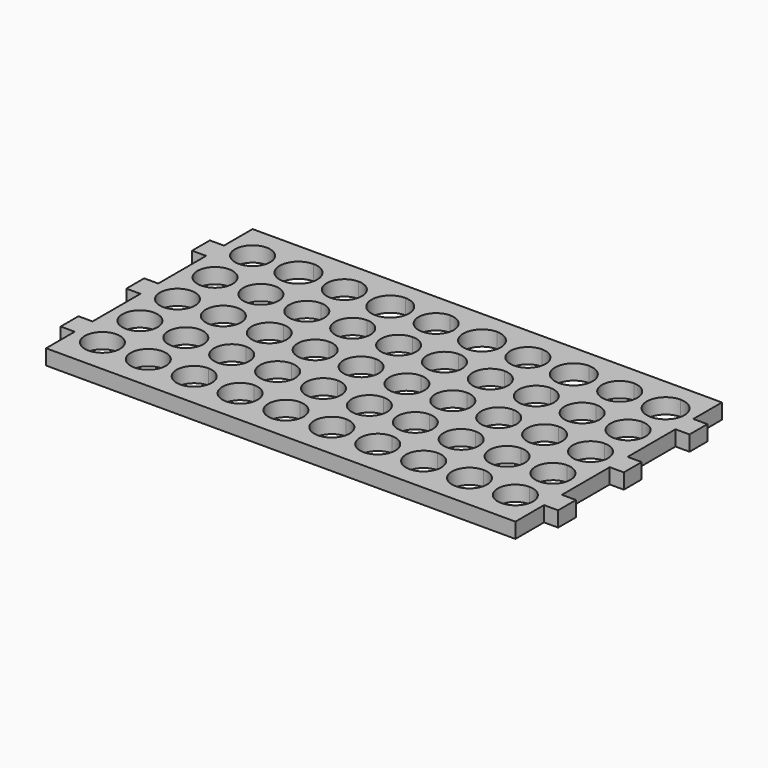
from build123d import *

# Parameters (mm, degrees)
F0_W     = 200
F0_H     = 110
F1_DEPTH = 6.5
F3_DEPTH = 6
F5_DEPTH = 6
F7_DEPTH = 25


with BuildPart() as f1:
    # F0 (on Top) → F1 (new body)
    with BuildSketch(Plane.XY):
        Rectangle(F0_W, F0_H)
    extrude(amount=F1_DEPTH)

    # F2 (on face) → F3 (join)
    with BuildSketch(Plane(origin=(-100, 0, 0), x_dir=(0, -1, 0), z_dir=(-1, 0, 0))):
        Polygon((-39.75, 6.5), (-39.75, 3.25), (-35, 3.25), (-30.25, 3.25), (-30.25, 6.5), align=None)
        Polygon((-35, 3.25), (-39.75, 3.25), (-39.75, 0), (-30.25, 0), (-30.25, 3.25), align=None)
        Polygon((-4.75, 6.5), (-4.75, 3.25), (0, 3.25), (4.75, 3.25), (4.75, 6.5), align=None)
        Polygon((0, 3.25), (-4.75, 3.25), (-4.75, 0), (4.75, 0), (4.75, 3.25), align=None)
        Polygon((39.75, 6.5), (30.25, 6.5), (30.25, 3.25), (35, 3.25), (39.75, 3.25), align=None)
        Polygon((30.25, 3.25), (30.25, 0), (39.75, 0), (39.75, 3.25), (35, 3.25), align=None)
    extrude(amount=F3_DEPTH)

    # F4 (on face) → F5 (join)
    with BuildSketch(Plane.YZ.offset(100)):
        Polygon((-39.75, 6.5), (-39.75, 3.25), (-35, 3.25), (-30.25, 3.25), (-30.25, 6.5), align=None)
        Polygon((-35, 3.25), (-39.75, 3.25), (-39.75, 0), (-30.25, 0), (-30.25, 3.25), align=None)
        Polygon((-4.75, 6.5), (-4.75, 3.25), (0, 3.25), (4.75, 3.25), (4.75, 6.5), align=None)
        Polygon((0, 3.25), (-4.75, 3.25), (-4.75, 0), (4.75, 0), (4.75, 3.25), align=None)
        Polygon((39.75, 6.5), (30.25, 6.5), (30.25, 3.25), (30.25, 0), (39.75, 0), align=None)
    extrude(amount=F5_DEPTH)

    # F6 (on face) → F7 (cut)
    with BuildSketch(Plane.XY.offset(6.5)):
        with BuildLine():
            Line((-88, 40), (-88, 47.5))
            ThreePointArc((-88, 47.5), (-95.5, 40), (-88, 32.5))
            Line((-88, 32.5), (-88, 40))
        make_face()
        with BuildLine():
            ThreePointArc((-80.5, 40), (-82.6966991411, 45.3033008589), (-88, 47.5))
            Line((-88, 47.5), (-88, 40))
            Line((-88, 40), (-88, 32.5))
            ThreePointArc((-88, 32.5), (-82.6966991411, 34.6966991411), (-80.5, 40))
        make_face()
        with BuildLine():
            Line((-68.445, 32.0100222161), (-68.445, 47.9899777839))
            ThreePointArc((-68.445, 47.9899777839), (-76.4349777839, 40), (-68.445, 32.0100222161))
        make_face()
        with BuildLine():
            ThreePointArc((-60.4550222161, 40), (-62.7952325275, 45.6497674725), (-68.445, 47.9899777839))
            Line((-68.445, 47.9899777839), (-68.445, 32.0100222161))
            ThreePointArc((-68.445, 32.0100222161), (-62.7952325275, 34.3502325275), (-60.4550222161, 40))
        make_face()
        with BuildLine():
            Line((-48.8895, 32.5000000167), (-48.8895, 47.4999999833))
            ThreePointArc((-48.8895, 47.4999999833), (-56.39, 40), (-48.8895, 32.5000000167))
        make_face()
        with BuildLine():
            ThreePointArc((-41.39, 40), (-43.5865223674, 45.3031240793), (-48.8895, 47.4999999833))
            Line((-48.8895, 47.4999999833), (-48.8895, 32.5000000167))
            ThreePointArc((-48.8895, 32.5000000167), (-43.5865223674, 34.6968759207), (-41.39, 40))
        make_face()
        with BuildLine():
            Line((-29.33395, 32.0100222163), (-29.33395, 47.9899777837))
            ThreePointArc((-29.33395, 47.9899777837), (-37.3239777839, 40), (-29.33395, 32.0100222163))
        make_face()
        with BuildLine():
            ThreePointArc((-21.3440222161, 40), (-23.6842148499, 45.6497497948), (-29.33395, 47.9899777837))
            Line((-29.33395, 47.9899777837), (-29.33395, 32.0100222163))
            ThreePointArc((-29.33395, 32.0100222163), (-23.6842148499, 34.3502502052), (-21.3440222161, 40))
        make_face()
        with BuildLine():
            Line((-9.77895, 32.5000000735), (-9.77895, 47.4999999265))
            ThreePointArc((-9.77895, 47.4999999265), (-17.2779, 40), (-9.77895, 32.5000000735))
        make_face()
        with BuildLine():
            ThreePointArc((-2.2779, 40), (-4.4749703852, 45.303672077), (-9.77895, 47.4999999265))
            Line((-9.77895, 47.4999999265), (-9.77895, 32.5000000735))
            ThreePointArc((-9.77895, 32.5000000735), (-4.4749703852, 34.696327923), (-2.2779, 40))
        make_face()
        with BuildLine():
            Line((9.77605, 32.0100222163), (9.77605, 47.9899777837))
            ThreePointArc((9.77605, 47.9899777837), (1.7861222161, 40), (9.77605, 32.0100222163))
        make_face()
        with BuildLine():
            ThreePointArc((17.7660777839, 40), (15.4258497948, 45.6497851501), (9.77605, 47.9899777837))
            Line((9.77605, 47.9899777837), (9.77605, 32.0100222163))
            ThreePointArc((9.77605, 32.0100222163), (15.4258497948, 34.3502148499), (17.7660777839, 40))
        make_face()
        with BuildLine():
            Line((29.33105, 32.5000000735), (29.33105, 47.4999999265))
            ThreePointArc((29.33105, 47.4999999265), (21.83, 40), (29.33105, 32.5000000735))
        make_face()
        with BuildLine():
            ThreePointArc((36.83, 40), (34.633672077, 45.3029296148), (29.33105, 47.4999999265))
            Line((29.33105, 47.4999999265), (29.33105, 32.5000000735))
            ThreePointArc((29.33105, 32.5000000735), (34.633672077, 34.6970703852), (36.83, 40))
        make_face()
        with BuildLine():
            Line((48.88605, 32.0100222163), (48.88605, 47.9899777837))
            ThreePointArc((48.88605, 47.9899777837), (40.8960222161, 40), (48.88605, 32.0100222163))
        make_face()
        with BuildLine():
            ThreePointArc((56.8759777839, 40), (54.5357851501, 45.6497497948), (48.88605, 47.9899777837))
            Line((48.88605, 47.9899777837), (48.88605, 32.0100222163))
            ThreePointArc((48.88605, 32.0100222163), (54.5357851501, 34.3502502052), (56.8759777839, 40))
        make_face()
        with BuildLine():
            Line((68.44105, 32.5000000735), (68.44105, 47.4999999265))
            ThreePointArc((68.44105, 47.4999999265), (60.9421, 40), (68.44105, 32.5000000735))
        make_face()
        with BuildLine():
            ThreePointArc((75.9421, 40), (73.7450296148, 45.303672077), (68.44105, 47.4999999265))
            Line((68.44105, 47.4999999265), (68.44105, 32.5000000735))
            ThreePointArc((68.44105, 32.5000000735), (73.7450296148, 34.696327923), (75.9421, 40))
        make_face()
        with BuildLine():
            Line((87.99605, 32.0100222163), (87.99605, 47.9899777837))
            ThreePointArc((87.99605, 47.9899777837), (80.0061222161, 40), (87.99605, 32.0100222163))
        make_face()
        with BuildLine():
            ThreePointArc((95.9860777839, 40), (93.6458497948, 45.6497851501), (87.99605, 47.9899777837))
            Line((87.99605, 47.9899777837), (87.99605, 32.0100222163))
            ThreePointArc((87.99605, 32.0100222163), (93.6458497948, 34.3502148499), (95.9860777839, 40))
        make_face()
        with BuildLine():
            ThreePointArc((95.4961, 20), (93.2993831812, 25.3033185365), (87.99605, 27.4999999998))
            Line((87.99605, 27.4999999998), (87.99605, 12.5000000002))
            ThreePointArc((87.99605, 12.5000000002), (93.2993831812, 14.6966814635), (95.4961, 20))
        make_face()
        with BuildLine():
            Line((87.99605, 12.5000000002), (87.99605, 27.4999999998))
            ThreePointArc((87.99605, 27.4999999998), (80.4961, 20), (87.99605, 12.5000000002))
        make_face()
        with BuildLine():
            ThreePointArc((75.9421, 20), (73.7450296148, 25.303672077), (68.44105, 27.4999999265))
            Line((68.44105, 27.4999999265), (68.44105, 12.5000000735))
            ThreePointArc((68.44105, 12.5000000735), (73.7450296148, 14.696327923), (75.9421, 20))
        make_face()
        with BuildLine():
            Line((68.44105, 12.5000000735), (68.44105, 27.4999999265))
            ThreePointArc((68.44105, 27.4999999265), (60.9421, 20), (68.44105, 12.5000000735))
        make_face()
        with BuildLine():
            ThreePointArc((56.386, 20), (54.1893185365, 25.3032831812), (48.88605, 27.4999999998))
            Line((48.88605, 27.4999999998), (48.88605, 12.5000000002))
            ThreePointArc((48.88605, 12.5000000002), (54.1893185365, 14.6967168188), (56.386, 20))
        make_face()
        with BuildLine():
            Line((48.88605, 12.5000000002), (48.88605, 27.4999999998))
            ThreePointArc((48.88605, 27.4999999998), (41.386, 20), (48.88605, 12.5000000002))
        make_face()
        with BuildLine():
            ThreePointArc((36.83, 20), (34.633672077, 25.3029296148), (29.33105, 27.4999999265))
            Line((29.33105, 27.4999999265), (29.33105, 12.5000000735))
            ThreePointArc((29.33105, 12.5000000735), (34.633672077, 14.6970703852), (36.83, 20))
        make_face()
        with BuildLine():
            Line((29.33105, 12.5000000735), (29.33105, 27.4999999265))
            ThreePointArc((29.33105, 27.4999999265), (21.83, 20), (29.33105, 12.5000000735))
        make_face()
        with BuildLine():
            ThreePointArc((17.2761, 20), (15.0793831812, 25.3033185365), (9.77605, 27.4999999998))
            Line((9.77605, 27.4999999998), (9.77605, 12.5000000002))
            ThreePointArc((9.77605, 12.5000000002), (15.0793831812, 14.6966814635), (17.2761, 20))
        make_face()
        with BuildLine():
            Line((9.77605, 12.5000000002), (9.77605, 27.4999999998))
            ThreePointArc((9.77605, 27.4999999998), (2.2761, 20), (9.77605, 12.5000000002))
        make_face()
        with BuildLine():
            ThreePointArc((-2.2779, 20), (-4.4749703852, 25.303672077), (-9.77895, 27.4999999265))
            Line((-9.77895, 27.4999999265), (-9.77895, 12.5000000735))
            ThreePointArc((-9.77895, 12.5000000735), (-4.4749703852, 14.696327923), (-2.2779, 20))
        make_face()
        with BuildLine():
            Line((-9.77895, 12.5000000735), (-9.77895, 27.4999999265))
            ThreePointArc((-9.77895, 27.4999999265), (-17.2779, 20), (-9.77895, 12.5000000735))
        make_face()
        with BuildLine():
            ThreePointArc((-21.834, 20), (-24.0306814635, 25.3032831812), (-29.33395, 27.4999999998))
            Line((-29.33395, 27.4999999998), (-29.33395, 12.5000000002))
            ThreePointArc((-29.33395, 12.5000000002), (-24.0306814635, 14.6967168188), (-21.834, 20))
        make_face()
        with BuildLine():
            Line((-29.33395, 12.5000000002), (-29.33395, 27.4999999998))
            ThreePointArc((-29.33395, 27.4999999998), (-36.834, 20), (-29.33395, 12.5000000002))
        make_face()
        with BuildLine():
            ThreePointArc((-41.39, 20), (-43.5865223674, 25.3031240793), (-48.8895, 27.4999999833))
            Line((-48.8895, 27.4999999833), (-48.8895, 12.5000000167))
            ThreePointArc((-48.8895, 12.5000000167), (-43.5865223674, 14.6968759207), (-41.39, 20))
        make_face()
        with BuildLine():
            Line((-48.8895, 12.5000000167), (-48.8895, 27.4999999833))
            ThreePointArc((-48.8895, 27.4999999833), (-56.39, 20), (-48.8895, 12.5000000167))
        make_face()
        with BuildLine():
            ThreePointArc((-60.945, 20), (-63.1416991411, 25.3033008589), (-68.445, 27.5))
            Line((-68.445, 27.5), (-68.445, 12.5))
            ThreePointArc((-68.445, 12.5), (-63.1416991411, 14.6966991411), (-60.945, 20))
        make_face()
        with BuildLine():
            Line((-68.445, 12.5), (-68.445, 27.5))
            ThreePointArc((-68.445, 27.5), (-75.945, 20), (-68.445, 12.5))
        make_face()
        with BuildLine():
            ThreePointArc((-80.5, 20), (-82.6966991411, 25.3033008589), (-88, 27.5))
            Line((-88, 27.5), (-88, 20))
            Line((-88, 20), (-88, 12.5))
            ThreePointArc((-88, 12.5), (-82.6966991411, 14.6966991411), (-80.5, 20))
        make_face()
        with BuildLine():
            Line((-88, 20), (-88, 27.5))
            ThreePointArc((-88, 27.5), (-95.5, 20), (-88, 12.5))
            Line((-88, 12.5), (-88, 20))
        make_face()
        with BuildLine():
            Line((-88, 0), (-88, 7.5))
            ThreePointArc((-88, 7.5), (-95.5, 0), (-88, -7.5))
            Line((-88, -7.5), (-88, 0))
        make_face()
        with BuildLine():
            ThreePointArc((-80.5, 0), (-82.6966991411, 5.3033008589), (-88, 7.5))
            Line((-88, 7.5), (-88, 0))
            Line((-88, 0), (-88, -7.5))
            ThreePointArc((-88, -7.5), (-82.6966991411, -5.3033008589), (-80.5, 0))
        make_face()
        with BuildLine():
            Line((-68.445, -7.5), (-68.445, 7.5))
            ThreePointArc((-68.445, 7.5), (-75.945, 0), (-68.445, -7.5))
        make_face()
        with BuildLine():
            ThreePointArc((-60.945, 0), (-63.1416991411, 5.3033008589), (-68.445, 7.5))
            Line((-68.445, 7.5), (-68.445, -7.5))
            ThreePointArc((-68.445, -7.5), (-63.1416991411, -5.3033008589), (-60.945, 0))
        make_face()
        with BuildLine():
            Line((-48.8895, -7.4999999833), (-48.8895, 7.4999999833))
            ThreePointArc((-48.8895, 7.4999999833), (-56.39, 0), (-48.8895, -7.4999999833))
        make_face()
        with BuildLine():
            ThreePointArc((-41.39, 0), (-43.5865223674, 5.3031240793), (-48.8895, 7.4999999833))
            Line((-48.8895, 7.4999999833), (-48.8895, -7.4999999833))
            ThreePointArc((-48.8895, -7.4999999833), (-43.5865223674, -5.3031240793), (-41.39, 0))
        make_face()
        with BuildLine():
            Line((-29.33395, -7.4999999998), (-29.33395, 7.4999999998))
            ThreePointArc((-29.33395, 7.4999999998), (-36.834, 0), (-29.33395, -7.4999999998))
        make_face()
        with BuildLine():
            ThreePointArc((-21.834, 0), (-24.0306814635, 5.3032831812), (-29.33395, 7.4999999998))
            Line((-29.33395, 7.4999999998), (-29.33395, -7.4999999998))
            ThreePointArc((-29.33395, -7.4999999998), (-24.0306814635, -5.3032831812), (-21.834, 0))
        make_face()
        with BuildLine():
            Line((-9.77895, -7.4999999265), (-9.77895, 7.4999999265))
            ThreePointArc((-9.77895, 7.4999999265), (-17.2779, 0), (-9.77895, -7.4999999265))
        make_face()
        with BuildLine():
            ThreePointArc((-2.2779, 0), (-4.4749703852, 5.303672077), (-9.77895, 7.4999999265))
            Line((-9.77895, 7.4999999265), (-9.77895, -7.4999999265))
            ThreePointArc((-9.77895, -7.4999999265), (-4.4749703852, -5.303672077), (-2.2779, 0))
        make_face()
        with BuildLine():
            Line((9.77605, -7.4999999998), (9.77605, 7.4999999998))
            ThreePointArc((9.77605, 7.4999999998), (2.2761, 0), (9.77605, -7.4999999998))
        make_face()
        with BuildLine():
            ThreePointArc((17.2761, 0), (15.0793831812, 5.3033185365), (9.77605, 7.4999999998))
            Line((9.77605, 7.4999999998), (9.77605, -7.4999999998))
            ThreePointArc((9.77605, -7.4999999998), (15.0793831812, -5.3033185365), (17.2761, 0))
        make_face()
        with BuildLine():
            Line((29.33105, -7.4999999265), (29.33105, 7.4999999265))
            ThreePointArc((29.33105, 7.4999999265), (21.83, 0), (29.33105, -7.4999999265))
        make_face()
        with BuildLine():
            ThreePointArc((36.83, 0), (34.633672077, 5.3029296148), (29.33105, 7.4999999265))
            Line((29.33105, 7.4999999265), (29.33105, -7.4999999265))
            ThreePointArc((29.33105, -7.4999999265), (34.633672077, -5.3029296148), (36.83, 0))
        make_face()
        with BuildLine():
            Line((48.88605, -7.4999999998), (48.88605, 7.4999999998))
            ThreePointArc((48.88605, 7.4999999998), (41.386, 0), (48.88605, -7.4999999998))
        make_face()
        with BuildLine():
            ThreePointArc((56.386, 0), (54.1893185365, 5.3032831812), (48.88605, 7.4999999998))
            Line((48.88605, 7.4999999998), (48.88605, -7.4999999998))
            ThreePointArc((48.88605, -7.4999999998), (54.1893185365, -5.3032831812), (56.386, 0))
        make_face()
        with BuildLine():
            Line((68.44105, -7.4999999265), (68.44105, 7.4999999265))
            ThreePointArc((68.44105, 7.4999999265), (60.9421, 0), (68.44105, -7.4999999265))
        make_face()
        with BuildLine():
            ThreePointArc((75.9421, 0), (73.7450296148, 5.303672077), (68.44105, 7.4999999265))
            Line((68.44105, 7.4999999265), (68.44105, -7.4999999265))
            ThreePointArc((68.44105, -7.4999999265), (73.7450296148, -5.303672077), (75.9421, 0))
        make_face()
        with BuildLine():
            Line((87.99605, -7.4999999998), (87.99605, 7.4999999998))
            ThreePointArc((87.99605, 7.4999999998), (80.4961, 0), (87.99605, -7.4999999998))
        make_face()
        with BuildLine():
            ThreePointArc((95.4961, 0), (93.2993831812, 5.3033185365), (87.99605, 7.4999999998))
            Line((87.99605, 7.4999999998), (87.99605, -7.4999999998))
            ThreePointArc((87.99605, -7.4999999998), (93.2993831812, -5.3033185365), (95.4961, 0))
        make_face()
        with BuildLine():
            ThreePointArc((95.4961, -20), (93.2993831812, -14.6966814635), (87.99605, -12.5000000002))
            Line((87.99605, -12.5000000002), (87.99605, -27.4999999998))
            ThreePointArc((87.99605, -27.4999999998), (93.2993831812, -25.3033185365), (95.4961, -20))
        make_face()
        with BuildLine():
            Line((87.99605, -27.4999999998), (87.99605, -12.5000000002))
            ThreePointArc((87.99605, -12.5000000002), (80.4961, -20), (87.99605, -27.4999999998))
        make_face()
        with BuildLine():
            ThreePointArc((75.9421, -20), (73.7450296148, -14.696327923), (68.44105, -12.5000000735))
            Line((68.44105, -12.5000000735), (68.44105, -27.4999999265))
            ThreePointArc((68.44105, -27.4999999265), (73.7450296148, -25.303672077), (75.9421, -20))
        make_face()
        with BuildLine():
            Line((68.44105, -27.4999999265), (68.44105, -12.5000000735))
            ThreePointArc((68.44105, -12.5000000735), (60.9421, -20), (68.44105, -27.4999999265))
        make_face()
        with BuildLine():
            ThreePointArc((56.386, -20), (54.1893185365, -14.6967168188), (48.88605, -12.5000000002))
            Line((48.88605, -12.5000000002), (48.88605, -27.4999999998))
            ThreePointArc((48.88605, -27.4999999998), (54.1893185365, -25.3032831812), (56.386, -20))
        make_face()
        with BuildLine():
            Line((48.88605, -27.4999999998), (48.88605, -12.5000000002))
            ThreePointArc((48.88605, -12.5000000002), (41.386, -20), (48.88605, -27.4999999998))
        make_face()
        with BuildLine():
            ThreePointArc((36.83, -20), (34.633672077, -14.6970703852), (29.33105, -12.5000000735))
            Line((29.33105, -12.5000000735), (29.33105, -27.4999999265))
            ThreePointArc((29.33105, -27.4999999265), (34.633672077, -25.3029296148), (36.83, -20))
        make_face()
        with BuildLine():
            Line((29.33105, -27.4999999265), (29.33105, -12.5000000735))
            ThreePointArc((29.33105, -12.5000000735), (21.83, -20), (29.33105, -27.4999999265))
        make_face()
        with BuildLine():
            ThreePointArc((17.2761, -20), (15.0793831812, -14.6966814635), (9.77605, -12.5000000002))
            Line((9.77605, -12.5000000002), (9.77605, -27.4999999998))
            ThreePointArc((9.77605, -27.4999999998), (15.0793831812, -25.3033185365), (17.2761, -20))
        make_face()
        with BuildLine():
            Line((9.77605, -27.4999999998), (9.77605, -12.5000000002))
            ThreePointArc((9.77605, -12.5000000002), (2.2761, -20), (9.77605, -27.4999999998))
        make_face()
        with BuildLine():
            ThreePointArc((-2.2779, -20), (-4.4749703852, -14.696327923), (-9.77895, -12.5000000735))
            Line((-9.77895, -12.5000000735), (-9.77895, -27.4999999265))
            ThreePointArc((-9.77895, -27.4999999265), (-4.4749703852, -25.303672077), (-2.2779, -20))
        make_face()
        with BuildLine():
            Line((-9.77895, -27.4999999265), (-9.77895, -12.5000000735))
            ThreePointArc((-9.77895, -12.5000000735), (-17.2779, -20), (-9.77895, -27.4999999265))
        make_face()
        with BuildLine():
            ThreePointArc((-21.834, -20), (-24.0306814635, -14.6967168188), (-29.33395, -12.5000000002))
            Line((-29.33395, -12.5000000002), (-29.33395, -27.4999999998))
            ThreePointArc((-29.33395, -27.4999999998), (-24.0306814635, -25.3032831812), (-21.834, -20))
        make_face()
        with BuildLine():
            Line((-29.33395, -27.4999999998), (-29.33395, -12.5000000002))
            ThreePointArc((-29.33395, -12.5000000002), (-36.834, -20), (-29.33395, -27.4999999998))
        make_face()
        with BuildLine():
            ThreePointArc((-41.39, -20), (-43.5865223674, -14.6968759207), (-48.8895, -12.5000000167))
            Line((-48.8895, -12.5000000167), (-48.8895, -27.4999999833))
            ThreePointArc((-48.8895, -27.4999999833), (-43.5865223674, -25.3031240793), (-41.39, -20))
        make_face()
        with BuildLine():
            Line((-48.8895, -27.4999999833), (-48.8895, -12.5000000167))
            ThreePointArc((-48.8895, -12.5000000167), (-56.39, -20), (-48.8895, -27.4999999833))
        make_face()
        with BuildLine():
            ThreePointArc((-60.945, -20), (-63.1416991411, -14.6966991411), (-68.445, -12.5))
            Line((-68.445, -12.5), (-68.445, -27.5))
            ThreePointArc((-68.445, -27.5), (-63.1416991411, -25.3033008589), (-60.945, -20))
        make_face()
        with BuildLine():
            Line((-68.445, -27.5), (-68.445, -12.5))
            ThreePointArc((-68.445, -12.5), (-75.945, -20), (-68.445, -27.5))
        make_face()
        with BuildLine():
            ThreePointArc((-80.5, -20), (-82.6966991411, -14.6966991411), (-88, -12.5))
            Line((-88, -12.5), (-88, -20))
            Line((-88, -20), (-88, -27.5))
            ThreePointArc((-88, -27.5), (-82.6966991411, -25.3033008589), (-80.5, -20))
        make_face()
        with BuildLine():
            Line((-88, -20), (-88, -12.5))
            ThreePointArc((-88, -12.5), (-95.5, -20), (-88, -27.5))
            Line((-88, -27.5), (-88, -20))
        make_face()
        with BuildLine():
            ThreePointArc((-80.5, -40), (-82.6966991411, -34.6966991411), (-88, -32.5))
            ThreePointArc((-88, -32.5), (-93.3033008589, -45.3033008589), (-80.5, -40))
        make_face()
        with BuildLine():
            Line((-68.445, -47.5), (-68.445, -32.5))
            ThreePointArc((-68.445, -32.5), (-75.945, -40), (-68.445, -47.5))
        make_face()
        with BuildLine():
            ThreePointArc((-60.945, -40), (-63.1416991411, -34.6966991411), (-68.445, -32.5))
            Line((-68.445, -32.5), (-68.445, -47.5))
            ThreePointArc((-68.445, -47.5), (-63.1416991411, -45.3033008589), (-60.945, -40))
        make_face()
        with BuildLine():
            Line((-48.8895, -47.4999999833), (-48.8895, -32.5000000167))
            ThreePointArc((-48.8895, -32.5000000167), (-56.39, -40), (-48.8895, -47.4999999833))
        make_face()
        with BuildLine():
            ThreePointArc((-41.39, -40), (-43.5865223674, -34.6968759207), (-48.8895, -32.5000000167))
            Line((-48.8895, -32.5000000167), (-48.8895, -47.4999999833))
            ThreePointArc((-48.8895, -47.4999999833), (-43.5865223674, -45.3031240793), (-41.39, -40))
        make_face()
        with BuildLine():
            Line((-29.33395, -47.4999999998), (-29.33395, -32.5000000002))
            ThreePointArc((-29.33395, -32.5000000002), (-36.834, -40), (-29.33395, -47.4999999998))
        make_face()
        with BuildLine():
            ThreePointArc((-21.834, -40), (-24.0306814635, -34.6967168188), (-29.33395, -32.5000000002))
            Line((-29.33395, -32.5000000002), (-29.33395, -47.4999999998))
            ThreePointArc((-29.33395, -47.4999999998), (-24.0306814635, -45.3032831812), (-21.834, -40))
        make_face()
        with BuildLine():
            Line((-9.77895, -47.4999999265), (-9.77895, -32.5000000735))
            ThreePointArc((-9.77895, -32.5000000735), (-17.2779, -40), (-9.77895, -47.4999999265))
        make_face()
        with BuildLine():
            ThreePointArc((-2.2779, -40), (-4.4749703852, -34.696327923), (-9.77895, -32.5000000735))
            Line((-9.77895, -32.5000000735), (-9.77895, -47.4999999265))
            ThreePointArc((-9.77895, -47.4999999265), (-4.4749703852, -45.303672077), (-2.2779, -40))
        make_face()
        with BuildLine():
            Line((9.77605, -47.4999999998), (9.77605, -32.5000000002))
            ThreePointArc((9.77605, -32.5000000002), (2.2761, -40), (9.77605, -47.4999999998))
        make_face()
        with BuildLine():
            ThreePointArc((17.2761, -40), (15.0793831812, -34.6966814635), (9.77605, -32.5000000002))
            Line((9.77605, -32.5000000002), (9.77605, -47.4999999998))
            ThreePointArc((9.77605, -47.4999999998), (15.0793831812, -45.3033185365), (17.2761, -40))
        make_face()
        with BuildLine():
            Line((29.33105, -47.4999999265), (29.33105, -32.5000000735))
            ThreePointArc((29.33105, -32.5000000735), (21.83, -40), (29.33105, -47.4999999265))
        make_face()
        with BuildLine():
            ThreePointArc((36.83, -40), (34.633672077, -34.6970703852), (29.33105, -32.5000000735))
            Line((29.33105, -32.5000000735), (29.33105, -47.4999999265))
            ThreePointArc((29.33105, -47.4999999265), (34.633672077, -45.3029296148), (36.83, -40))
        make_face()
        with BuildLine():
            Line((48.88605, -47.4999999998), (48.88605, -32.5000000002))
            ThreePointArc((48.88605, -32.5000000002), (41.386, -40), (48.88605, -47.4999999998))
        make_face()
        with BuildLine():
            ThreePointArc((56.386, -40), (54.1893185365, -34.6967168188), (48.88605, -32.5000000002))
            Line((48.88605, -32.5000000002), (48.88605, -47.4999999998))
            ThreePointArc((48.88605, -47.4999999998), (54.1893185365, -45.3032831812), (56.386, -40))
        make_face()
        with BuildLine():
            Line((68.44105, -47.4999999265), (68.44105, -32.5000000735))
            ThreePointArc((68.44105, -32.5000000735), (60.9421, -40), (68.44105, -47.4999999265))
        make_face()
        with BuildLine():
            ThreePointArc((75.9421, -40), (73.7450296148, -34.696327923), (68.44105, -32.5000000735))
            Line((68.44105, -32.5000000735), (68.44105, -47.4999999265))
            ThreePointArc((68.44105, -47.4999999265), (73.7450296148, -45.303672077), (75.9421, -40))
        make_face()
        with BuildLine():
            Line((87.99605, -47.4999999998), (87.99605, -32.5000000002))
            ThreePointArc((87.99605, -32.5000000002), (80.4961, -40), (87.99605, -47.4999999998))
        make_face()
        with BuildLine():
            ThreePointArc((95.4961, -40), (93.2993831812, -34.6966814635), (87.99605, -32.5000000002))
            Line((87.99605, -32.5000000002), (87.99605, -47.4999999998))
            ThreePointArc((87.99605, -47.4999999998), (93.2993831812, -45.3033185365), (95.4961, -40))
        make_face()
    extrude(amount=-F7_DEPTH, mode=Mode.SUBTRACT)


solid = f1.part
